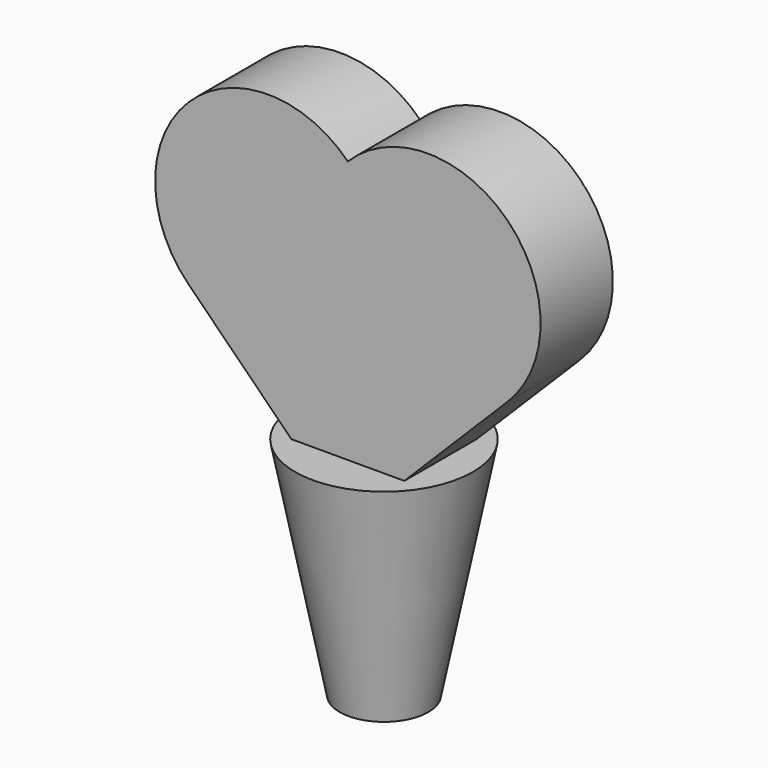
from build123d import *

# Parameters (mm, degrees)
F0_R     = 5
F2_R     = 10
F5_DEPTH = 5.08
F6_DEPTH = 5.08


with BuildPart() as f3:
    # F0 (on Top) → F3 section 0
    with BuildSketch(Plane.XY):
        Circle(F0_R)
    # F2 (on offset) → F3 section 1
    with BuildSketch(Plane.XY.offset(25.4)):
        Circle(F2_R)
    loft()

    # F4 (on Front) → F5 (join)
    with BuildSketch(Plane.XZ):
        with BuildLine():
            ThreePointArc((17.960512, 37.010512), (17.960512, 54.971024), (0, 54.971024))
            ThreePointArc((0, 54.971024), (-17.960512, 54.971024), (-17.960512, 37.010512))
            Line((-17.960512, 37.010512), (0, 19.05))
            Line((0, 19.05), (17.960512, 37.010512))
        make_face()
    extrude(amount=F5_DEPTH)

    # F4 (on Front) → F6 (join)
    with BuildSketch(Plane.XZ):
        with BuildLine():
            ThreePointArc((17.960512, 37.010512), (17.960512, 54.971024), (0, 54.971024))
            ThreePointArc((0, 54.971024), (-17.960512, 54.971024), (-17.960512, 37.010512))
            Line((-17.960512, 37.010512), (0, 19.05))
            Line((0, 19.05), (17.960512, 37.010512))
        make_face()
    extrude(amount=-F6_DEPTH)


solid = f3.part
